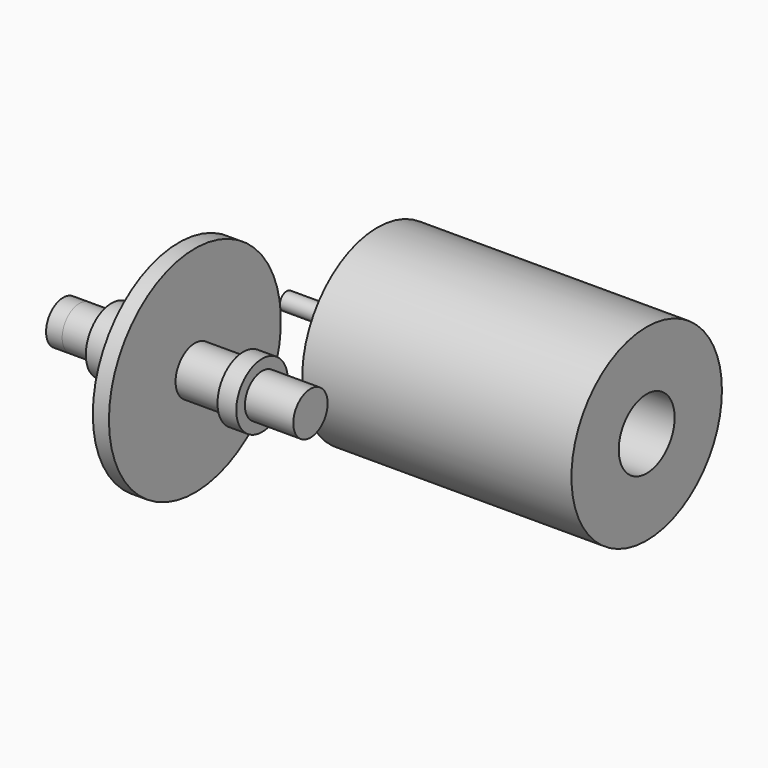
from build123d import *

# Parameters (mm, degrees)
F0_W      = 6
F0_H      = 4
F0_W_2    = 3.5
F0_H_2    = 0.5
F0_W_3    = 3
F0_H_3    = 8
F0_W_4    = 9
F2_DEPTH  = 3
F3_DEPTH  = 3
F6_R      = 6.5
F6_R_2    = 5.5
F7_DEPTH  = 4.5
F8_START  = 4.4
F6_R_3    = 12.5
F8_DEPTH  = 50.1
F9_R      = 1.585
F10_DEPTH = 12.5


with BuildPart() as f1:
    # F0 (on Top) → F1 (revolve)
    with BuildSketch(Plane.XY):
        with Locations((-17, 2)):
            Rectangle(F0_W, F0_H)
        with Locations((-12.25, 2)):
            Rectangle(F0_W_2, F0_H)
        with Locations((-7.5, 4.25)):
            Rectangle(F0_W, F0_H_2)
        with Locations((-3, 4.25)):
            Rectangle(F0_W_3, F0_H_2)
        with Locations((-3, 8.5)):
            Rectangle(F0_W_3, F0_H_3)
        with Locations((-3, 2)):
            Rectangle(F0_W_3, F0_H)
        with Locations((-7.5, 2)):
            Rectangle(F0_W, F0_H)
        with Locations((0, 2)):
            Rectangle(F0_W_3, F0_H)
        with Locations((0, 4.25)):
            Rectangle(F0_W_3, F0_H_2)
        with Locations((6, 2)):
            Rectangle(F0_W_4, F0_H)
        with Locations((6, 4.25)):
            Rectangle(F0_W_4, F0_H_2)
        with Locations((12.25, 2)):
            Rectangle(F0_W_2, F0_H)
        with Locations((17, 2)):
            Rectangle(F0_W, F0_H)
    revolve(axis=Axis((-2.3278323933, 0, 0), (-1, 0, 0)))

    # F2 (add): a face of the model
    f2_faces = [f1.faces().sort_by_distance(p)[0] for p in [
        (20, 0, 0),
    ]]
    extrude(f2_faces, amount=F2_DEPTH)

    # F3 (add): a face of the model
    f3_faces = [f1.faces().sort_by_distance(p)[0] for p in [
        (-20, 0, 0),
    ]]
    extrude(f3_faces, amount=F3_DEPTH)


with BuildPart() as f4:
    # F0 (on Top) → F4 (revolve)
    with BuildSketch(Plane.XY):
        Polygon((-14, 4), (-10.5, 4), (-10.5, 4.5), (-10.5, 6), (-14, 6), align=None)
    revolve(axis=Axis((-2.3278323933, 0, 0), (-1, 0, 0)))


with BuildPart() as f4b:
    # F0 (on Top) → F4, piece 2 (revolve)
    with BuildSketch(Plane.XY):
        Polygon((10.5, 4), (14, 4), (14, 6), (10.5, 6), (10.5, 4.5), align=None)
    revolve(axis=Axis((-2.3278323933, 0, 0), (-1, 0, 0)))


with BuildPart() as f5:
    # F0 (on Top) → F5 (revolve)
    with BuildSketch(Plane.XY):
        Polygon((1.5, -20), (1.5, -4.5), (-1.5, -4.5), (-1.5, -12.5), (-1.5, -20), align=None)
    revolve(axis=Axis((-2.3278323933, 0, 0), (-1, 0, 0)))


with BuildPart() as f7:
    # F6 (on Right) → F7 (new body)
    with BuildSketch(Plane.YZ):
        with Locations((25.4472904077, 0.0251420527)):
            Circle(F6_R)
        with Locations((25.4472904077, 0.0251420527)):
            Circle(F6_R_2, mode=Mode.SUBTRACT)
    extrude(amount=F7_DEPTH)


with BuildPart() as f8:
    # F6 (on Right) → F8 (new body)
    with BuildSketch(Plane.YZ.offset(F8_START)):
        with BuildLine():
            Line((40, -9.6943560579), (40, 9.7446401632))
            ThreePointArc((40, 9.7446401632), (7.9472904077, 0.0251420527), (40, -9.6943560579))
        make_face()
        with Locations((25.4472904077, 0.0251420527)):
            Circle(F6_R_3, mode=Mode.SUBTRACT)
        with Locations((25.4472904077, 0.0251420527)):
            Circle(F6_R_3)
        with Locations((25.4472904077, 0.0251420527)):
            Circle(F6_R, mode=Mode.SUBTRACT)
        with BuildLine():
            ThreePointArc((42.9472904077, 0.0251420527), (42.1942665208, 5.1034085942), (40, 9.7446401632))
            Line((40, 9.7446401632), (40, -9.6943560579))
            ThreePointArc((40, -9.6943560579), (42.1942665208, -5.0531244889), (42.9472904077, 0.0251420527))
        make_face()
    extrude(amount=F8_DEPTH)


with BuildPart() as f10:
    # F9 (on face) → F10 (new body)
    with BuildSketch(Plane.YZ):
        with Locations((25.4708486039, 0)):
            Circle(F9_R)
    extrude(amount=-F10_DEPTH)


with BuildPart() as f8_1:
    # F11: moved
    add(f8.part.moved(Location((10.7, 0, 0))))


with BuildPart() as f7_1:
    # F11: moved
    add(f7.part.moved(Location((10.7, 0, 0))))


with BuildPart() as f10_1:
    # F11: moved
    add(f10.part.moved(Location((10.7, 0, 0))))


solid = Compound([f1.part, f4.part, f4b.part, f5.part, f8_1.part, f7_1.part, f10_1.part])
